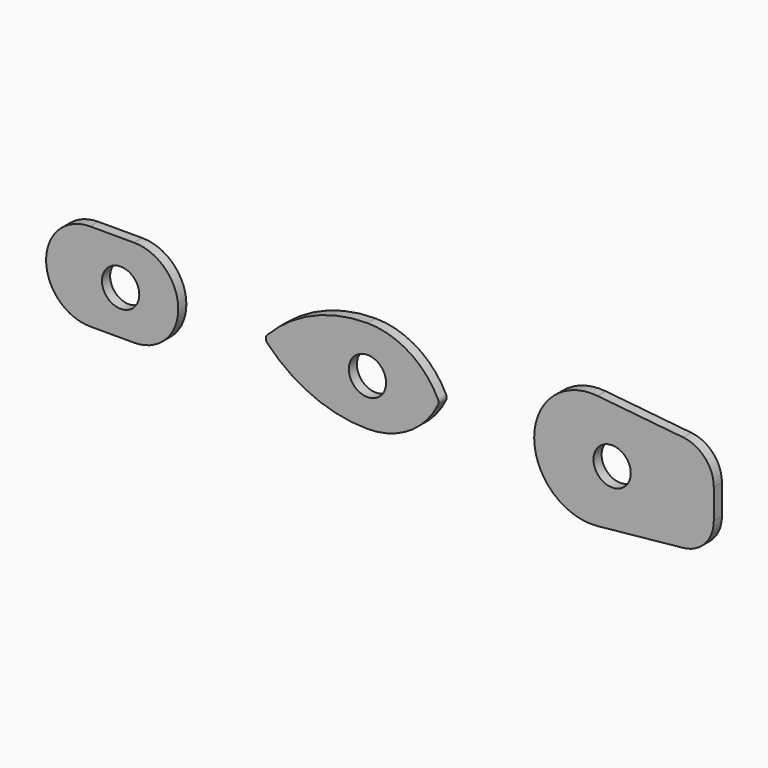
from build123d import *

# Parameters (mm, degrees)
F0_R     = 5.5
F1_DEPTH = 3


with BuildPart() as f1:
    # F0 (on Front) → F1 (new body)
    with BuildSketch(Plane.XZ):
        with BuildLine():
            ThreePointArc((13, 26), (0, 13), (13, 0))
            Line((13, 0), (26, 0))
            ThreePointArc((26, 0), (39, 13), (26, 26))
            Line((26, 26), (13, 26))
        make_face()
        with Locations((22, 13)):
            Circle(F0_R, mode=Mode.SUBTRACT)
        with BuildLine():
            ThreePointArc((115.688461, 14.40109), (107.149317, 23.953574), (94.837135, 27.5))
            ThreePointArc((94.837135, 27.5), (78.734217, 24.185872), (65.248742, 14.782182))
            ThreePointArc((65.248742, 14.782182), (64.943832, 14.305612), (64.837135, 13.75))
            ThreePointArc((64.837135, 13.75), (64.943832, 13.194388), (65.248742, 12.717818))
            ThreePointArc((65.248742, 12.717818), (78.734217, 3.314128), (94.837135, 0))
            ThreePointArc((94.837135, 0), (107.149317, 3.546426), (115.688461, 13.09891))
            ThreePointArc((115.688461, 13.09891), (115.799495, 13.416075), (115.837135, 13.75))
            ThreePointArc((115.837135, 13.75), (115.799495, 14.083925), (115.688461, 14.40109))
        make_face()
        with Locations((94.837135, 13.75)):
            Circle(F0_R, mode=Mode.SUBTRACT)
        with BuildLine():
            Line((188.048291, 28.099003), (162.754332, 30.663305))
            ThreePointArc((162.754332, 30.663305), (149.641183, 26.362482), (144.039661, 13.75))
            ThreePointArc((144.039661, 13.75), (149.641183, 1.137518), (162.754332, -3.163305))
            Line((162.754332, -3.163305), (188.048291, -0.599003))
            ThreePointArc((188.048291, -0.599003), (194.458768, 2.645013), (197.039661, 9.35))
            Line((197.039661, 9.35), (197.039661, 13.75))
            Line((197.039661, 13.75), (197.039661, 18.15))
            ThreePointArc((197.039661, 18.15), (194.458768, 24.854987), (188.048291, 28.099003))
        make_face()
        with Locations((167.039661, 13.75)):
            Circle(F0_R, mode=Mode.SUBTRACT)
    extrude(amount=F1_DEPTH)


solid = f1.part
